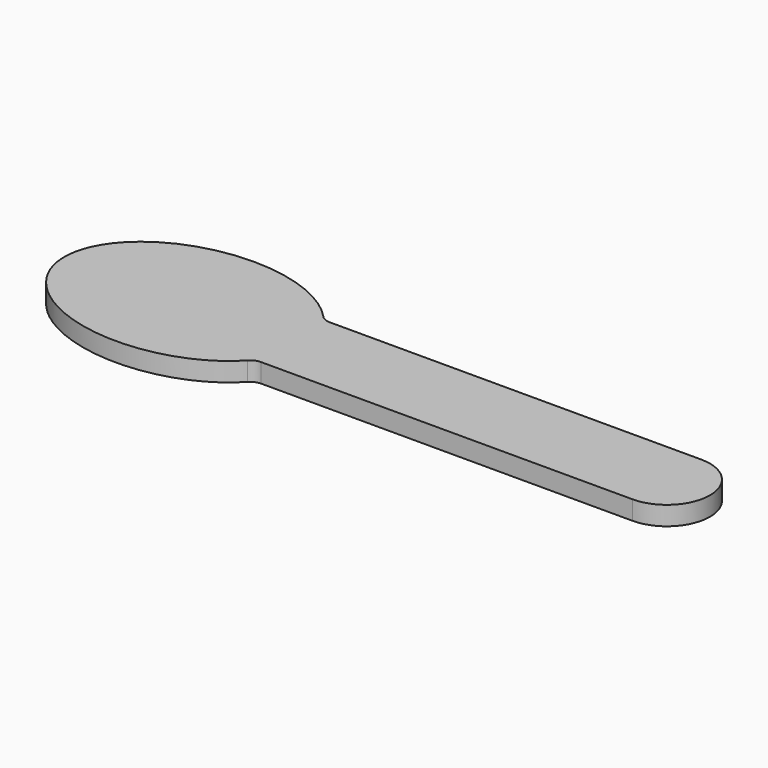
from build123d import *

# Parameters (mm, degrees)
F1_DEPTH = 5.5
F2_R     = 4


with BuildPart() as f1:
    # F0 (on Top) → F1 (new body)
    with BuildSketch(Plane.XY):
        with BuildLine():
            Line((87.5, 12.5), (-22.1891108675, 12.5))
            add(Edge.make_bspline(
                [(-22.1891108675, 12.5), (-43.0447987379, 38.3022221559), (-74.997566339, 19.151111078), (-106.9503339401, 0), (-74.997566339, -19.151111078), (-43.0447987379, -38.3022221559), (-22.1891108675, -12.5)],
                knots=[0.5235987756, 0.5235987756, 0.5235987756, 2.2689280276, 2.2689280276, 4.0142572796, 4.0142572796, 5.7595865316, 5.7595865316, 5.7595865316], degree=2, weights=[1, 0.6427876097, 1, 0.6427876097, 1, 0.6427876097, 1]))
            Line((-22.1891108675, -12.5), (87.5, -12.5))
            ThreePointArc((87.5, -12.5), (100, 0), (87.5, 12.5))
        make_face()
    extrude(amount=F1_DEPTH)

    # F2
    f2_edges = [f1.edges().sort_by_distance(p)[0] for p in [
        (-22.189111, 12.5, 2.75),
        (-22.189111, -12.5, 2.75),
    ]]
    fillet(f2_edges, radius=F2_R)


solid = f1.part
